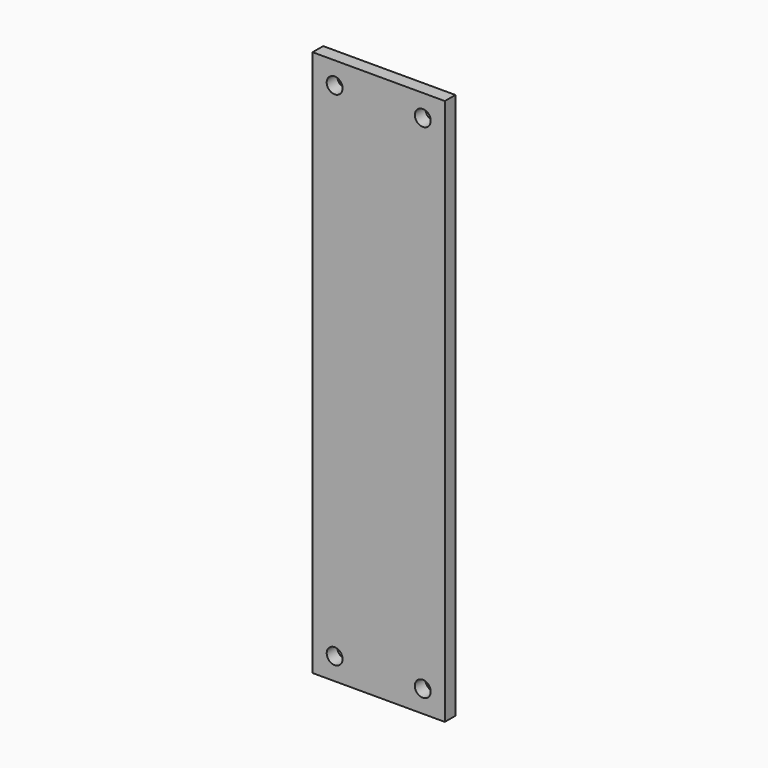
from build123d import *

# Parameters (mm, degrees)
CYLINDER038_R       = 1.8
CYLINDER038_DEPTH   = 10
ARRAY001019_X_COUNT = 2
ARRAY001019_X_PITCH = 20
ARRAY001019_Z_COUNT = 2
ARRAY001019_Z_PITCH = 114
BOX018_W            = 30
BOX018_H            = 3
BOX018_DEPTH        = 124


with BuildPart() as side_connector_hole_array:
    # Cylinder038 → Cylinder038 (new body)
    with BuildSketch(Plane.XZ):
        Circle(CYLINDER038_R)
    extrude(amount=CYLINDER038_DEPTH)

    # Array001019 X: side connector hole array ×2


with BuildPart() as side_connector_hole_array_1:
    add(side_connector_hole_array.part)
    with Locations(*[(i * ARRAY001019_X_PITCH, 0, 0) for i in range(1, ARRAY001019_X_COUNT)]):
        add(side_connector_hole_array.part)

    # Array001019 Z: side connector hole array ×2


with BuildPart() as side_connector_hole_array_2:
    add(side_connector_hole_array_1.part)
    with Locations(*[(0, 0, i * ARRAY001019_Z_PITCH) for i in range(1, ARRAY001019_Z_COUNT)]):
        add(side_connector_hole_array_1.part)


with BuildPart() as side_connector_hole_array_3:
    # Array001019 placement: moved
    add(side_connector_hole_array_2.part.moved(Location((5, 5, 5))))


with BuildPart() as vertical_side_connector_clone001:
    # Box018 → Box018 (new body)
    with BuildSketch(Plane.XY):
        with Locations((15, 1.5)):
            Rectangle(BOX018_W, BOX018_H)
    extrude(amount=BOX018_DEPTH)

    # Cut014: cut side connector hole array
    add(side_connector_hole_array_3.part, mode=Mode.SUBTRACT)


with BuildPart() as vertical_side_connector_clone001_1:
    # Compound001 placement: moved
    add(vertical_side_connector_clone001.part.moved(Location((0, -11, -36))))


with BuildPart() as vertical_side_connector_clone001_2:
    # Clone005 placement: moved
    add(vertical_side_connector_clone001_1.part.moved(Location((0, 6, 2))))


with BuildPart() as vertical_side_connector_clone001_3:
    # Body005 placement: moved
    add(vertical_side_connector_clone001_2.part.moved(Location((0, 95, -2))))


solid = vertical_side_connector_clone001_3.part
